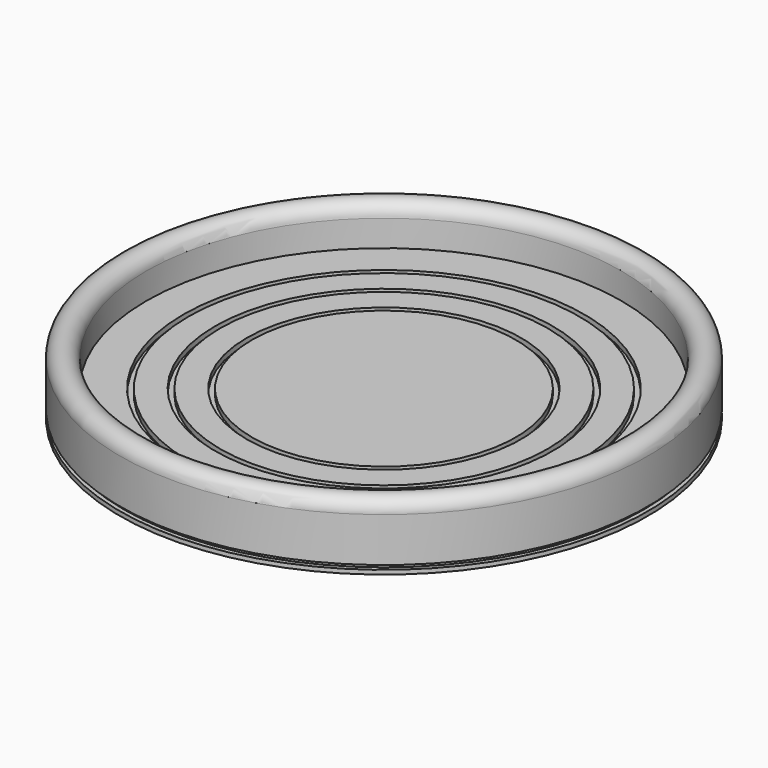
from build123d import *


with BuildPart() as f1:
    # F0 (on Front) → F1 (revolve)
    with BuildSketch(Plane.XZ):
        with BuildLine():
            Line((36.743357, 2.401563), (36.743357, 8.751563))
            Line((36.743357, 8.751563), (4.993357, 8.751563))
            Line((4.993357, 8.751563), (4.993357, 7.481563))
            Line((4.993357, 7.481563), (3.723357, 7.481563))
            Line((3.723357, 7.481563), (3.723357, 8.751563))
            Line((3.723357, 8.751563), (-2.626643, 8.751563))
            Line((-2.626643, 8.751563), (-2.626643, 7.481563))
            Line((-2.626643, 7.481563), (-3.896643, 7.481563))
            Line((-3.896643, 7.481563), (-3.896643, 8.751563))
            Line((-3.896643, 8.751563), (-10.246643, 8.751563))
            Line((-10.246643, 8.751563), (-10.246643, 7.481563))
            Line((-10.246643, 7.481563), (-11.516643, 7.481563))
            Line((-11.516643, 7.481563), (-11.516643, 8.751563))
            Line((-11.516643, 8.751563), (-20.406643, 8.751563))
            Line((-20.406643, 8.751563), (-20.406643, 15.101563))
            ThreePointArc((-20.406643, 15.101563), (-23.581643, 18.276563), (-26.756643, 15.101563))
            Line((-26.756643, 15.101563), (-26.756643, 4.433563))
            Line((-26.756643, 4.433563), (-25.740643, 4.433563))
            Line((-25.740643, 4.433563), (-25.740643, 3.417563))
            Line((-25.740643, 3.417563), (-26.756643, 3.417563))
            Line((-26.756643, 3.417563), (-26.756643, 2.401563))
            Line((-26.756643, 2.401563), (36.743357, 2.401563))
        make_face()
    revolve(axis=Axis((36.743357, 0, 5.576563), (0, 0, -1)))


solid = f1.part
